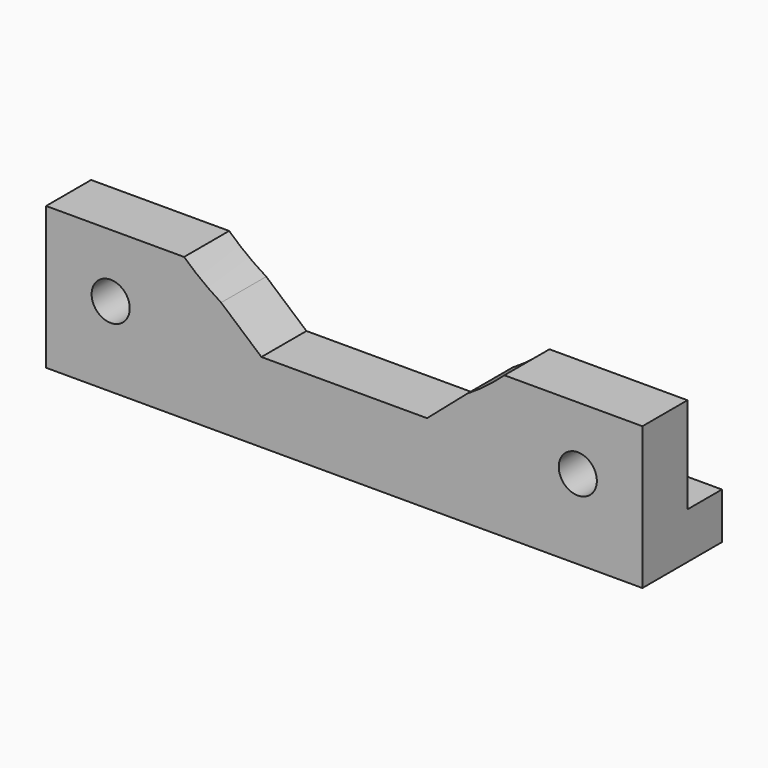
from build123d import *

# Parameters (mm, degrees)
F1_DEPTH = 90
F3_D     = 11.5
F3_DEPTH = 15
F3_TIP   = 3.4549485594
F5_DEPTH = 30.001
F7_D     = 11.5
F9_DEPTH = 30.001


with BuildPart() as f1:
    # F0 (on Right) → F1 (new body, symmetric)
    with BuildSketch(Plane.YZ):
        Polygon((0, 43), (0, 0), (30, 0), (30, 14), (17, 14), (17, 43), align=None)
    extrude(amount=F1_DEPTH, both=True)

    # F3
    with Locations(Plane(origin=(0, 0, 0), x_dir=(1, 0, 0), z_dir=(0, 0, -1))):
        with Locations((65, -14.5), (-65, -14.5)):
            Hole(F3_D / 2, depth=F3_DEPTH)
            with Locations((0, 0, -(F3_DEPTH + F3_TIP / 2))):  # 118° drill point
                Cone(0, F3_D / 2, F3_TIP, mode=Mode.SUBTRACT)

    # F4 (on face) → F5 (cut, through all)
    with BuildSketch(Plane.XZ):
        with BuildLine():
            Line((48.3425278611, 43), (-48.3425278611, 43))
            ThreePointArc((-48.3425278611, 43), (0, 24), (48.3425278611, 43))
        make_face()
    extrude(amount=-F5_DEPTH, mode=Mode.SUBTRACT)

    # F7 (through all)
    with Locations(Plane.XZ):
        with Locations((-70.5, 24), (70.5, 24)):
            Hole(F7_D / 2)

    # F8 (on face) → F9 (cut, through all)
    with BuildSketch(Plane.XZ):
        with BuildLine():
            Line((0, 43), (-47, 43))
            Line((-47, 43), (-37.1565411971, 34.4988310339))
            ThreePointArc((-37.1565411971, 34.4988310339), (-19.305659836, 26.6751033788), (0, 24))
            Line((0, 24), (0, 43))
        make_face()
        with BuildLine():
            ThreePointArc((0, 24), (-19.305659836, 26.6751033788), (-37.1565411971, 34.4988310339))
            Line((-37.1565411971, 34.4988310339), (-25, 24))
            Line((-25, 24), (0, 24))
        make_face()
        with BuildLine():
            Line((47, 43), (0, 43))
            Line((0, 43), (0, 24))
            ThreePointArc((0, 24), (19.305659836, 26.6751033788), (37.1565411971, 34.4988310339))
            Line((37.1565411971, 34.4988310339), (47, 43))
        make_face()
        with BuildLine():
            ThreePointArc((37.1565411971, 34.4988310339), (19.305659836, 26.6751033788), (0, 24))
            Line((0, 24), (25, 24))
            Line((25, 24), (37.1565411971, 34.4988310339))
        make_face()
        with BuildLine():
            Line((47, 43), (0, 43))
            Line((0, 43), (0, 24))
            ThreePointArc((0, 24), (19.305659836, 26.6751033788), (37.1565411971, 34.4988310339))
            Line((37.1565411971, 34.4988310339), (47, 43))
        make_face()
    extrude(amount=-F9_DEPTH, mode=Mode.SUBTRACT)


solid = f1.part
